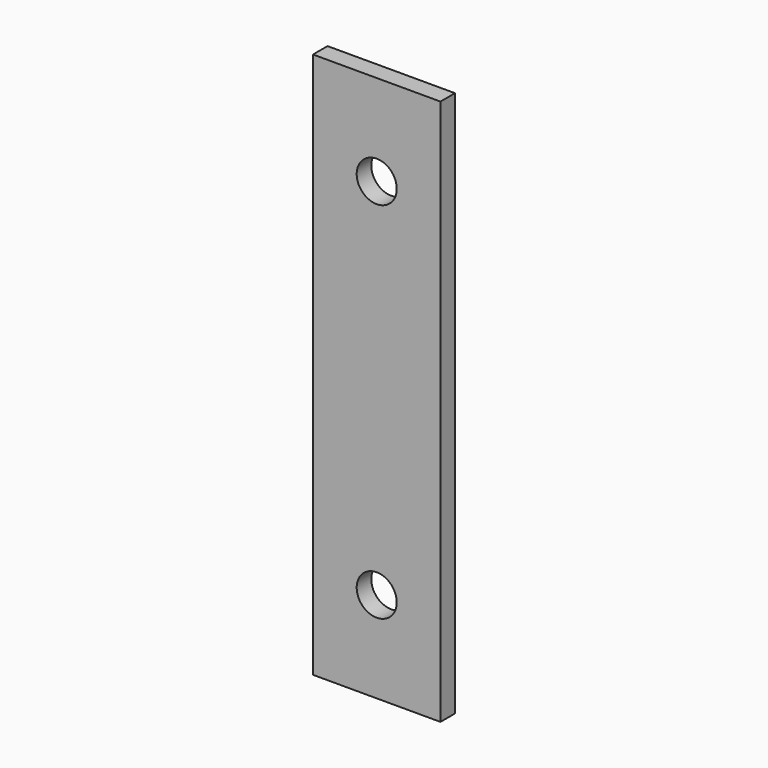
from build123d import *

# Parameters (mm, degrees)
F0_W     = 35
F0_H     = 150
F0_R     = 5.5
F1_DEPTH = 2.5


with BuildPart() as f1:
    # F0 (on Front) → F1 (new body, symmetric)
    with BuildSketch(Plane.XZ):
        Rectangle(F0_W, F0_H)
        with Locations((0, -50)):
            Circle(F0_R, mode=Mode.SUBTRACT)
        with Locations((0, 50)):
            Circle(F0_R, mode=Mode.SUBTRACT)
    extrude(amount=F1_DEPTH, both=True)


solid = f1.part
